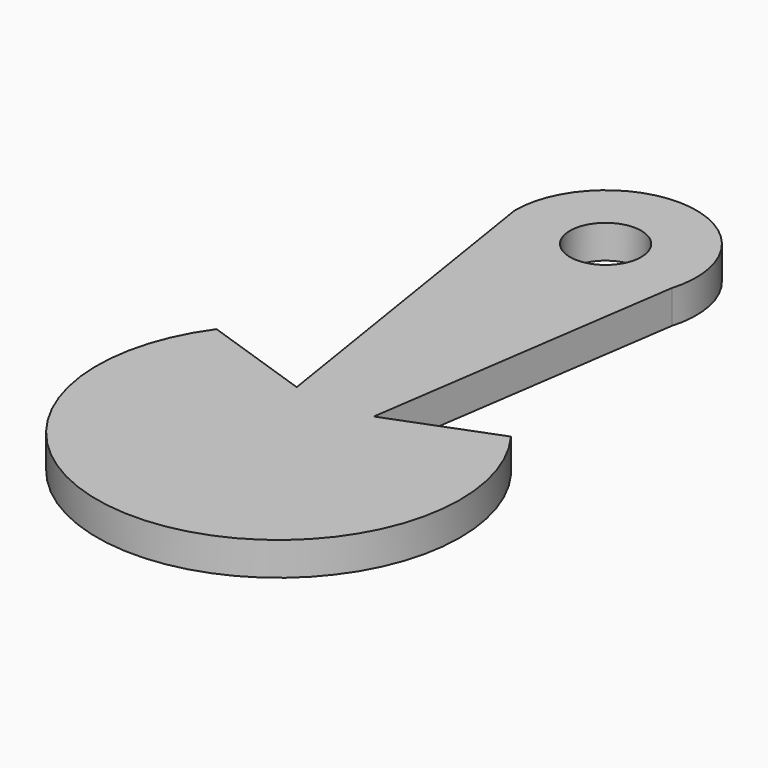
from build123d import *

# Parameters (mm, degrees)
F0_R     = 2.35485
F1_DEPTH = 2.2


with BuildPart() as f1:
    # F0 (on Top) → F1 (new body)
    with BuildSketch(Plane.XY):
        with BuildLine():
            Line((-27.897496, 40.862888), (-24.856735, 61.675307))
            ThreePointArc((-24.856735, 61.675307), (-29.738525, 69.328872), (-36.605935, 63.391903))
            Line((-36.605935, 63.391903), (-33.050369, 40.939249))
            Line((-33.050369, 40.939249), (-40.328487, 43.419894))
            ThreePointArc((-40.328487, 43.419894), (-30.535359, 24.395416), (-20.966746, 43.533801))
            Line((-20.966746, 43.533801), (-21.262323, 43.419894))
            Line((-21.262323, 43.419894), (-27.897496, 40.862888))
        make_face()
        with Locations((-30.605935, 63.391903)):
            Circle(F0_R, mode=Mode.SUBTRACT)
    extrude(amount=F1_DEPTH)


solid = f1.part
